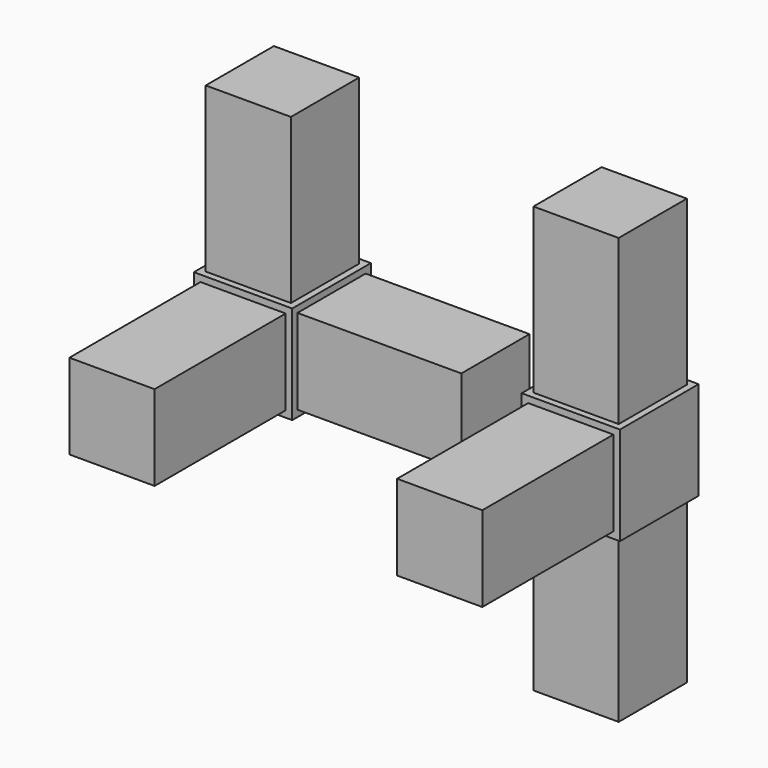
from build123d import *

# Parameters (mm, degrees)
F2_W      = 30
F2_H      = 30
F3_DEPTH  = 30
F4_W      = 26
F4_H      = 26
F5_DEPTH  = 50
F6_W      = 26
F6_H      = 26
F7_DEPTH  = 50
F8_W      = 26
F8_H      = 26
F9_DEPTH  = 50
F2_W_2    = 26
F2_H_2    = 26
F10_DEPTH = 30
F11_W     = 26
F11_H     = 26
F12_DEPTH = 50
F13_W     = 26
F13_H     = 26
F14_DEPTH = 50
F15_DEPTH = 50


with BuildPart() as f3:
    # F2 (on Top) → F3 (new body)
    with BuildSketch(Plane.XY):
        with Locations((15, -15)):
            Rectangle(F2_W, F2_H)
    extrude(amount=F3_DEPTH)

    # F4 (on face) → F5 (join)
    with BuildSketch(Plane.XZ.offset(30)):
        with Locations((15, 15)):
            Rectangle(F4_W, F4_H)
    extrude(amount=F5_DEPTH)

    # F6 (on face) → F7 (join)
    with BuildSketch(Plane.YZ.offset(30)):
        with Locations((-15, 15)):
            Rectangle(F6_W, F6_H)
    extrude(amount=F7_DEPTH)

    # F8 (on face) → F9 (join)
    with BuildSketch(Plane.XY.offset(30)):
        with Locations((15, -15)):
            Rectangle(F8_W, F8_H)
    extrude(amount=F9_DEPTH)


with BuildPart() as f10:
    # F2 (on Top) → F10 (new body)
    with BuildSketch(Plane.XY):
        with Locations((115, -15)):
            Rectangle(F2_W, F2_H)
        with Locations((115, -15)):
            Rectangle(F2_W_2, F2_H_2, mode=Mode.SUBTRACT)
        with Locations((115, -15)):
            Rectangle(F2_W, F2_H)
        with Locations((115, -15)):
            Rectangle(F2_W_2, F2_H_2, mode=Mode.SUBTRACT)
        with Locations((115, -15)):
            Rectangle(F2_W_2, F2_H_2)
    extrude(amount=F10_DEPTH)

    # F11 (on face) → F12 (join)
    with BuildSketch(Plane.XY.offset(30)):
        with Locations((115, -15)):
            Rectangle(F11_W, F11_H)
    extrude(amount=F12_DEPTH)

    # F13 (on face) → F14 (join)
    with BuildSketch(Plane.XZ.offset(30)):
        with Locations((115, 15)):
            Rectangle(F13_W, F13_H)
    extrude(amount=F14_DEPTH)

    # F2 (on Top) → F15 (join)
    with BuildSketch(Plane.XY):
        with Locations((115, -15)):
            Rectangle(F2_W_2, F2_H_2)
    extrude(amount=-F15_DEPTH)


solid = Compound([f3.part, f10.part])
